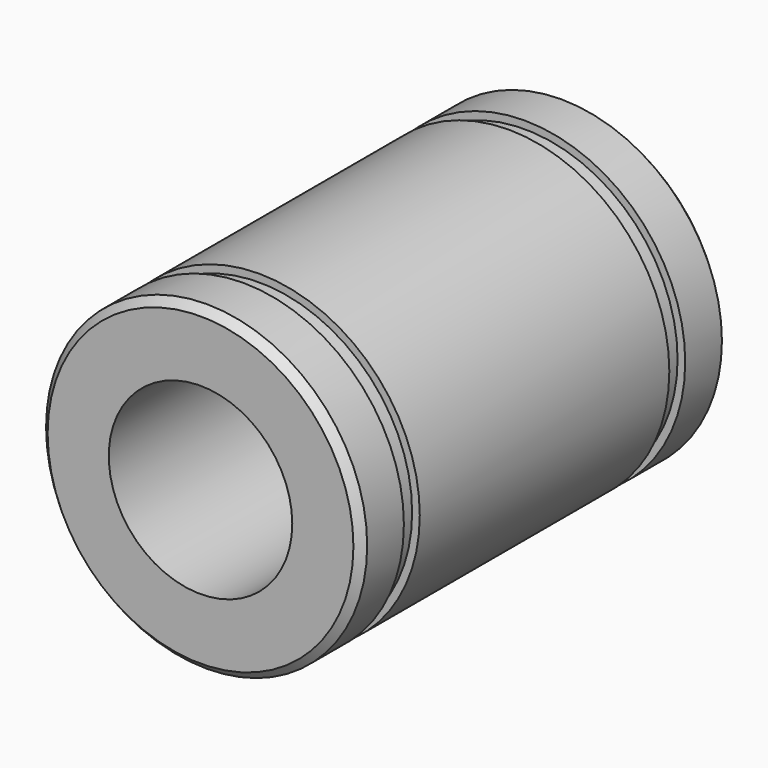
from build123d import *


with BuildPart() as f2:
    # F2: sweep along a path in F0
    with BuildLine(Plane.XZ) as f2_path:
        CenterArc((0, 0), 6, 0, 360)
    # F1 (on Right) → F2 (sweep)
    with BuildSketch(Plane.YZ):
        Polygon((0, 10), (0, 6), (30, 6), (30, 10), (29.5, 10.5), (26.5, 10.5), (26.5, 10), (25.2, 10), (25.2, 10.5), (15, 10.5), (4.8, 10.5), (4.8, 10), (3.5, 10), (3.5, 10.5), (0.5, 10.5), align=None)
    sweep(path=f2_path.line)


solid = f2.part
